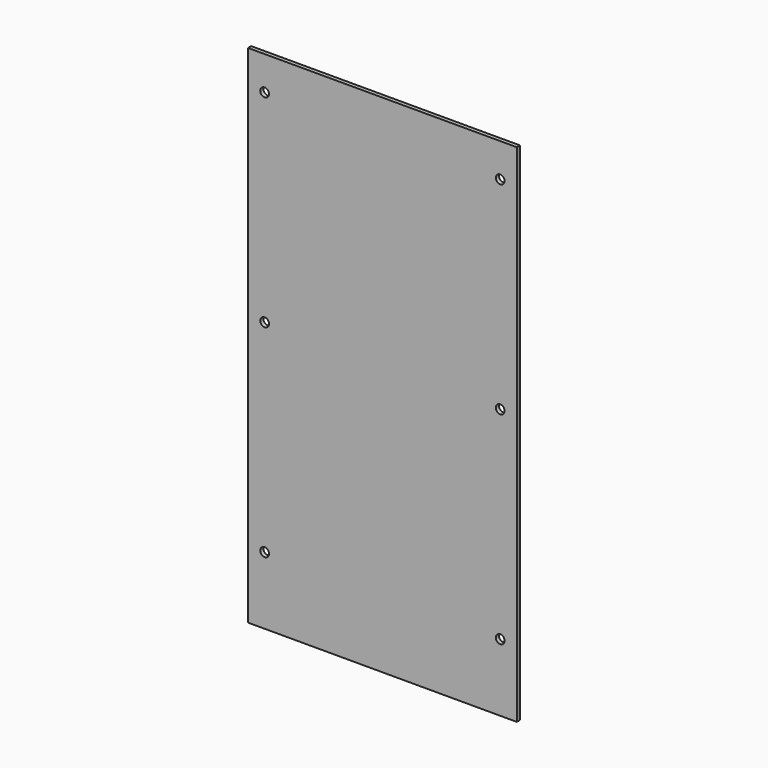
from build123d import *

# Parameters (mm, degrees)
F0_W     = 202.4
F0_H     = 381
F1_DEPTH = 3
F2_D     = 6.6


with BuildPart() as f1:
    # F0 (on Front) → F1 (new body)
    with BuildSketch(Plane.XZ):
        with Locations((-61.9627135719, -1.6996394843)):
            Rectangle(F0_W, F0_H)
    extrude(amount=F1_DEPTH)

    # F2 (through all)
    with Locations(Plane(origin=(0, 0, 0), x_dir=(1, 0, 0), z_dir=(0, 1, 0))):
        with Locations((-150.6627135719, -163.4003605157), (-150.6627135719, -11.0003605157), (-150.6627135719, 141.3996394843), (26.7372864281, 141.3996394843), (26.7372864281, -11.0003605157), (26.7372864281, -163.4003605157)):
            Hole(F2_D / 2)


solid = f1.part
